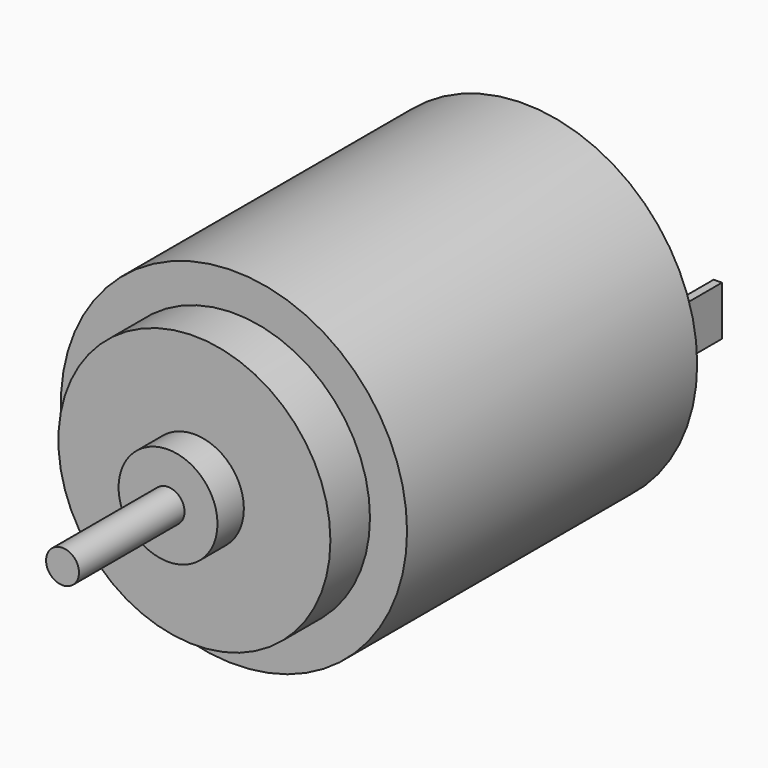
from build123d import *

# Parameters (mm, degrees)
F0_R          = 10.5
F0_R_2        = 8.25
F1_DEPTH      = 22
F0_W          = 0.5
F0_H          = 3
F0_R_3        = 3
F2_DEPTH      = 25
F0_R_4        = 1
F3_DEPTH      = 27
F3_DEPTH_BACK = 2
F4_DEPTH      = 35
F4_DEPTH_BACK = 2.5
F5_DEPTH      = 5


with BuildPart() as f1:
    # F0 (on Front) → F1 (new body)
    with BuildSketch(Plane.XZ):
        Circle(F0_R)
        Circle(F0_R_2, mode=Mode.SUBTRACT)
    extrude(amount=F1_DEPTH)

    # F0 (on Front) → F2 (join)
    with BuildSketch(Plane.XZ):
        Circle(F0_R_2)
        with Locations((-7.75, 0)):
            Rectangle(F0_W, F0_H, mode=Mode.SUBTRACT)
        Circle(F0_R_3, mode=Mode.SUBTRACT)
        with Locations((7.75, 0)):
            Rectangle(F0_W, F0_H, mode=Mode.SUBTRACT)
        with Locations((-7.75, 0)):
            Rectangle(F0_W, F0_H)
        with Locations((7.75, 0)):
            Rectangle(F0_W, F0_H)
    extrude(amount=F2_DEPTH)

    # F0 (on Front) → F3 (join, two sides)
    with BuildSketch(Plane.XZ) as f3_sk:
        Circle(F0_R_3)
        Circle(F0_R_4, mode=Mode.SUBTRACT)
    extrude(amount=F3_DEPTH)
    extrude(f3_sk.sketch, amount=-F3_DEPTH_BACK)

    # F0 (on Front) → F4 (join, two sides)
    with BuildSketch(Plane.XZ) as f4_sk:
        Circle(F0_R_4)
    extrude(amount=F4_DEPTH)
    extrude(f4_sk.sketch, amount=-F4_DEPTH_BACK)

    # F0 (on Front) → F5 (join)
    with BuildSketch(Plane.XZ):
        with Locations((-7.75, 0)):
            Rectangle(F0_W, F0_H)
        with Locations((7.75, 0)):
            Rectangle(F0_W, F0_H)
    extrude(amount=-F5_DEPTH)


solid = f1.part
